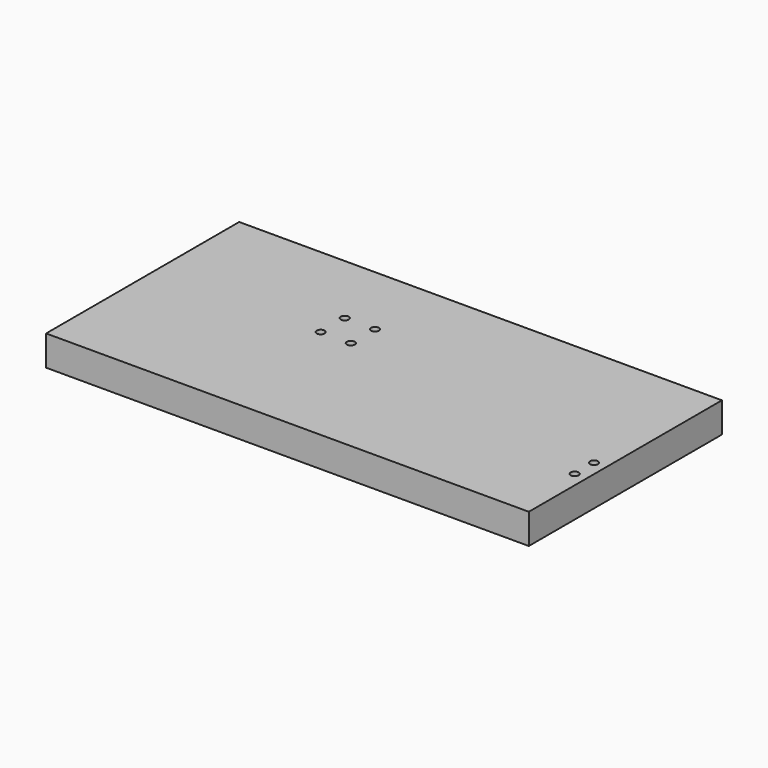
from build123d import *

# Parameters (mm, degrees)
F0_W     = 400
F0_H     = 200
F0_W_2   = 25
F0_H_2   = 25
F1_DEPTH = 25
F2_D     = 6.6
F2_DEPTH = 25
F2_TIP   = 1.9828400428
F3_D     = 6.6
F3_DEPTH = 25
F3_TIP   = 1.9828400428


with BuildPart() as f1:
    # F0 (on Top) → F1 (new body)
    with BuildSketch(Plane.XY):
        Rectangle(F0_W, F0_H)
        with Locations((-50, 25)):
            Rectangle(F0_W_2, F0_H_2, mode=Mode.SUBTRACT)
        with Locations((-50, 25)):
            Rectangle(F0_W_2, F0_H_2)
    extrude(amount=F1_DEPTH)

    # F2
    with Locations(Plane(origin=(0, 0, 0), x_dir=(1, 0, 0), z_dir=(0, 0, -1))):
        with Locations((-62.5, -37.5), (-37.5, -12.5), (-37.5, -37.5), (-62.5, -12.5)):
            Hole(F2_D / 2, depth=F2_DEPTH)
            with Locations((0, 0, -(F2_DEPTH + F2_TIP / 2))):  # 118° drill point
                Cone(0, F2_D / 2, F2_TIP, mode=Mode.SUBTRACT)

    # F3
    with Locations(Plane(origin=(0, 0, 0), x_dir=(1, 0, 0), z_dir=(0, 0, -1))):
        with Locations((190, 20), (190, 40)):
            Hole(F3_D / 2, depth=F3_DEPTH)
            with Locations((0, 0, -(F3_DEPTH + F3_TIP / 2))):  # 118° drill point
                Cone(0, F3_D / 2, F3_TIP, mode=Mode.SUBTRACT)


solid = f1.part
